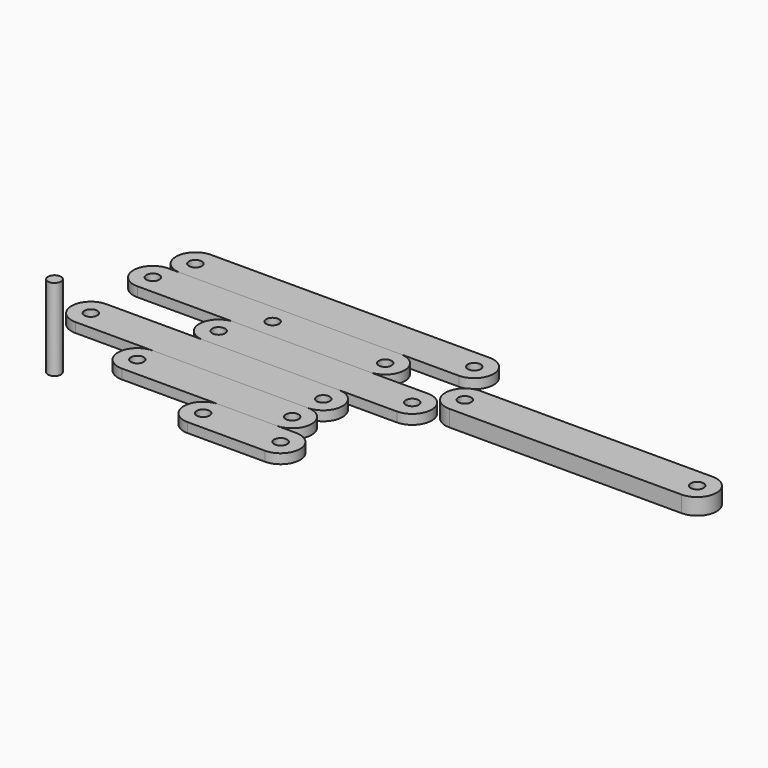
from build123d import *

# Parameters (mm, degrees)
F0_R      = 10
F1_DEPTH  = 15
F2_R      = 10
F3_DEPTH  = 15
F5_R      = 10
F6_DEPTH  = 15
F8_R      = 10
F9_DEPTH  = 15
F11_R     = 10.14074
F12_DEPTH = 127
F14_R     = 10
F15_DEPTH = 15.001
F16_R     = 10
F17_DEPTH = 15
F19_R     = 10
F20_DEPTH = 25.4


with BuildPart() as f1:
    # F0 (on Top) → F1 (new body)
    with BuildSketch(Plane.XY):
        with BuildLine():
            Line((120, 30), (0, 30))
            ThreePointArc((0, 30), (-30, 0), (0, -30))
            Line((0, -30), (120, -30))
            ThreePointArc((120, -30), (150, 0), (120, 30))
        make_face()
        Circle(F0_R, mode=Mode.SUBTRACT)
        with Locations((120, 0)):
            Circle(F0_R, mode=Mode.SUBTRACT)
    extrude(amount=F1_DEPTH)


with BuildPart() as f3:
    # F2 (on Top) → F3 (new body)
    with BuildSketch(Plane.XY):
        with BuildLine():
            Line((90, 30), (-150, 30))
            ThreePointArc((-150, 30), (-180, 0), (-150, -30))
            Line((-150, -30), (90, -30))
            ThreePointArc((90, -30), (120, 0), (90, 30))
        make_face()
        with Locations((-150, 0)):
            Circle(F2_R, mode=Mode.SUBTRACT)
        with Locations((90, 0)):
            Circle(F2_R, mode=Mode.SUBTRACT)
    extrude(amount=F3_DEPTH)


with BuildPart() as f3_1:
    # F4: moved
    add(f3.part.moved(Location((0, 60, 0))))


with BuildPart() as f6:
    # F5 (on Top) → F6 (new body)
    with BuildSketch(Plane.XY):
        with BuildLine():
            Line((90, 30), (-270, 30))
            ThreePointArc((-270, 30), (-300, 0), (-270, -30))
            Line((-270, -30), (90, -30))
            ThreePointArc((90, -30), (120, 0), (90, 30))
        make_face()
        with Locations((-270, 0)):
            Circle(F5_R, mode=Mode.SUBTRACT)
        with Locations((90, 0)):
            Circle(F5_R, mode=Mode.SUBTRACT)
    extrude(amount=F6_DEPTH)


with BuildPart() as f6_1:
    # F7: moved
    add(f6.part.moved(Location((0, 120, 0))))


with BuildPart() as f9:
    # F8 (on Top) → F9 (new body)
    with BuildSketch(Plane.XY):
        with BuildLine():
            Line((180, 30), (-120, 30))
            ThreePointArc((-120, 30), (-150, 0), (-120, -30))
            Line((-120, -30), (180, -30))
            ThreePointArc((180, -30), (210, 0), (180, 30))
        make_face()
        with Locations((-120, 0)):
            Circle(F8_R, mode=Mode.SUBTRACT)
        with Locations((180, 0)):
            Circle(F8_R, mode=Mode.SUBTRACT)
    extrude(amount=F9_DEPTH)


with BuildPart() as f9_1:
    # F10: moved
    add(f9.part.moved(Location((0, 180, 0))))


with BuildPart() as f12:
    # F11 (on Top) → F12 (new body)
    with BuildSketch(Plane.XY):
        with Locations((-225.590616, -5.987674)):
            Circle(F11_R)
    extrude(amount=F12_DEPTH)


with BuildPart() as f13_1:
    # F13: copy of F6
    add(f6_1.part.moved(Location((0, 120, 0))))

    # F14 (on face) → F15 (cut, through all)
    with BuildSketch(Plane.XY.offset(15)):
        with Locations((-84.425837, 240)):
            Circle(F14_R)
    extrude(amount=-F15_DEPTH, mode=Mode.SUBTRACT)


with BuildPart() as f17:
    # F16 (on Top) → F17 (new body)
    with BuildSketch(Plane.XY):
        with BuildLine():
            Line((180, 30), (-252, 30))
            ThreePointArc((-252, 30), (-282, 0), (-252, -30))
            Line((-252, -30), (180, -30))
            ThreePointArc((180, -30), (210, 0), (180, 30))
        make_face()
        with Locations((-252, 0)):
            Circle(F16_R, mode=Mode.SUBTRACT)
        with Locations((180, 0)):
            Circle(F16_R, mode=Mode.SUBTRACT)
    extrude(amount=F17_DEPTH)


with BuildPart() as f17_1:
    # F18: moved
    add(f17.part.moved(Location((0, 300, 0))))


with BuildPart() as f20:
    # F19 (on Top) → F20 (new body)
    with BuildSketch(Plane.XY):
        with BuildLine():
            Line((597.711111, 239.502339), (237.711111, 239.502339))
            ThreePointArc((237.711111, 239.502339), (207.711111, 209.502339), (237.711111, 179.502339))
            Line((237.711111, 179.502339), (597.711111, 179.502339))
            ThreePointArc((597.711111, 179.502339), (627.711111, 209.502339), (597.711111, 239.502339))
        make_face()
        with Locations((237.711111, 209.502339)):
            Circle(F19_R, mode=Mode.SUBTRACT)
        with Locations((597.711111, 209.502339)):
            Circle(F19_R, mode=Mode.SUBTRACT)
    extrude(amount=F20_DEPTH)


solid = Compound([f1.part, f3_1.part, f6_1.part, f9_1.part, f12.part, f13_1.part, f17_1.part, f20.part])
